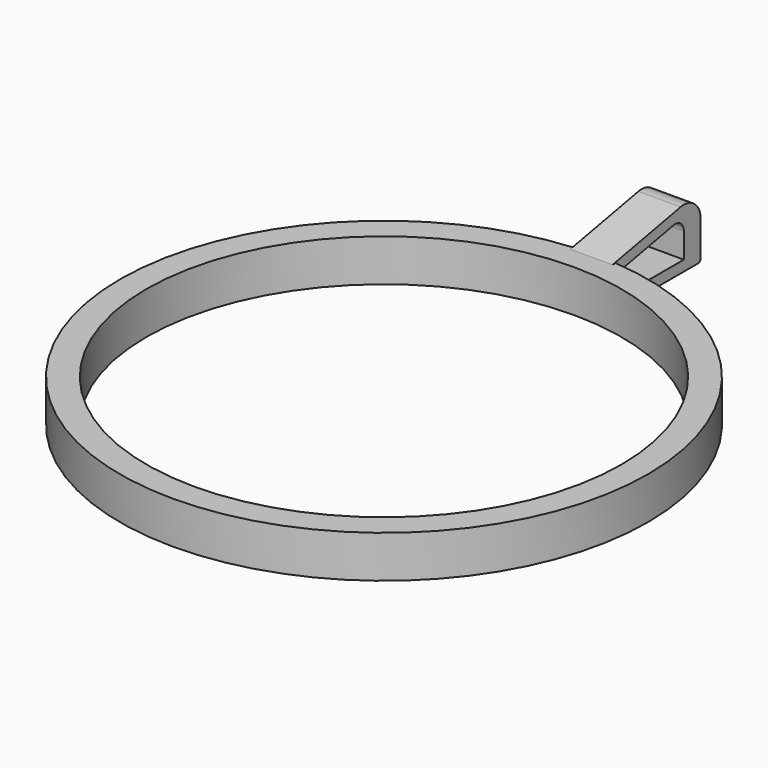
from build123d import *

# Parameters (mm, degrees)
F0_R          = 31.75
F1_DEPTH      = 5.08
F2_R          = 28.575
F3_DEPTH      = 5.08
F5_DEPTH      = 2.54
F5_DEPTH_BACK = 2.54
F6_R          = 0.381
F8_DEPTH      = 25.4


with BuildPart() as f1:
    # F0 (on Top) → F1 (new body)
    with BuildSketch(Plane.XY):
        Circle(F0_R)
    extrude(amount=F1_DEPTH)

    # F2 (on face) → F3 (cut, through all)
    with BuildSketch(Plane.XY.offset(5.08)):
        Circle(F2_R)
    extrude(amount=-F3_DEPTH, mode=Mode.SUBTRACT)

    # F4 (on Right) → F5 (join, two sides)
    with BuildSketch(Plane.YZ) as f5_sk:
        with BuildLine():
            Line((41.43187, 7.041525), (29.21, 4.699))
            Line((29.21, 4.699), (29.21, 0))
            Line((29.21, 0), (44.45, 0))
            Line((44.45, 0), (44.45, 4.546933))
            ThreePointArc((44.45, 4.546933), (43.528201, 6.504744), (41.43187, 7.041525))
        make_face()
    extrude(amount=F5_DEPTH)
    extrude(f5_sk.sketch, amount=-F5_DEPTH_BACK)

    # F6
    f6_edges = [f1.edges().sort_by_distance(p)[0] for p in [
        (0, 44.45, 0),
    ]]
    fillet(f6_edges, radius=F6_R)

    # F7 (on face) → F8 (cut)
    with BuildSketch(Plane.YZ.offset(2.54)):
        with BuildLine():
            Line((40.400935, 5.550812), (33.02, 4.136133))
            Line((33.02, 4.136133), (33.02, 1.27))
            Line((33.02, 1.27), (41.91, 1.27))
            Line((41.91, 1.27), (41.91, 4.303516))
            ThreePointArc((41.91, 4.303516), (41.449101, 5.282422), (40.400935, 5.550812))
        make_face()
    extrude(amount=-F8_DEPTH, mode=Mode.SUBTRACT)


solid = f1.part
